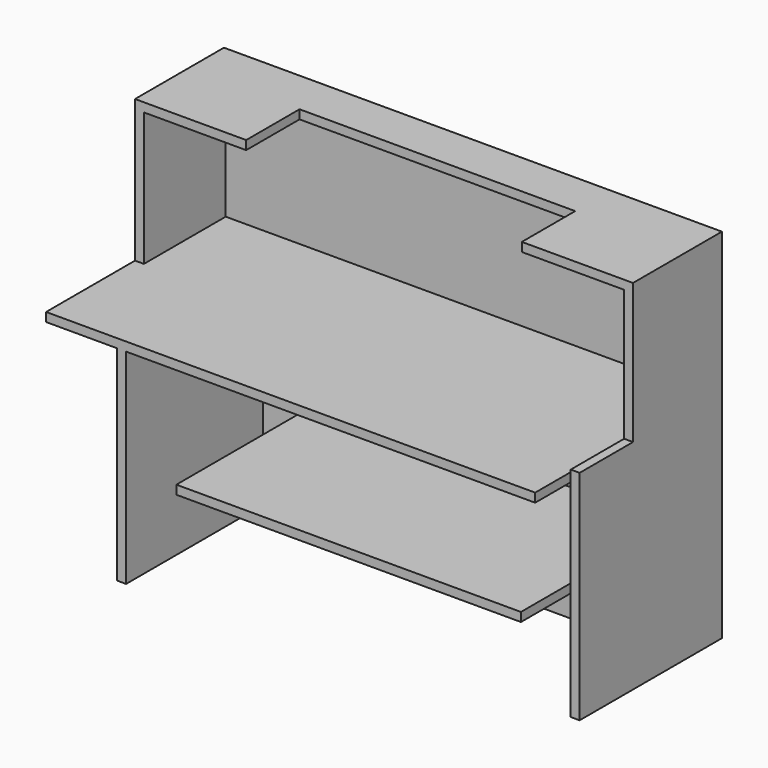
from build123d import *

# Parameters (mm, degrees)
F0_W      = 1100
F0_H      = 500
F1_DEPTH  = 20
F4_DEPTH  = 20
F5_W      = 20
F5_H      = 500
F6_DEPTH  = 460
F9_DEPTH  = 20
F10_W     = 775
F10_H     = 20
F11_DEPTH = 425
F12_W     = 1100
F12_H     = 20
F13_DEPTH = 300
F14_W     = 20
F14_H     = 230
F15_DEPTH = 300
F16_W     = 20
F16_H     = 250
F17_DEPTH = 295
F19_DEPTH = 20
F20_DEPTH = 20


with BuildPart() as f1:
    # F0 (on Top) → F1 (new body)
    with BuildSketch(Plane.XY):
        Rectangle(F0_W, F0_H)
    extrude(amount=F1_DEPTH)

    # F3 (on offset) → F4 (join)
    with BuildSketch(Plane.YZ.offset(550)):
        Polygon((250, -465), (250, 0), (250, 25), (-150, 25), (-150, -465), align=None)
    extrude(amount=F4_DEPTH)

    # F5 (on face) → F6 (join)
    with BuildSketch(Plane.XY):
        with Locations((-380, 0)):
            Rectangle(F5_W, F5_H)
    extrude(amount=-F6_DEPTH)

    # F8 (on offset) → F9 (join)
    with BuildSketch(Plane(origin=(0, 155, 0), x_dir=(-1, 0, 0), z_dir=(0, 1, 0))):
        Polygon((370, 0), (0, 0), (-420, 0), (-420, -460), (370, -460), align=None)
    extrude(amount=-F9_DEPTH)

    # F10 (on face) → F11 (join)
    with BuildSketch(Plane.XZ.offset(-135)):
        with Locations((162.5, -210)):
            Rectangle(F10_W, F10_H)
    extrude(amount=F11_DEPTH)

    # F12 (on face) → F13 (join)
    with BuildSketch(Plane.XY.offset(20)):
        with Locations((0, 240)):
            Rectangle(F12_W, F12_H)
    extrude(amount=F13_DEPTH)

    # F14 (on face) → F15 (join)
    with BuildSketch(Plane.XY.offset(20)):
        with Locations((-540, 115)):
            Rectangle(F14_W, F14_H)
    extrude(amount=F15_DEPTH)

    # F16 (on face) → F17 (join)
    with BuildSketch(Plane.XY.offset(25)):
        with Locations((560, 125)):
            Rectangle(F16_W, F16_H)
    extrude(amount=F17_DEPTH)

    # F18 (on face) → F19 (join)
    with BuildSketch(Plane.XY.offset(320)):
        Polygon((-300, 250), (-550, 250), (-550, 0), (-300, 0), (-300, 150), (320, 150), (320, 0), (570, 0), (570, 250), (320, 250), align=None)
    extrude(amount=F19_DEPTH)

    # F18 (on face) → F20 (join)
    with BuildSketch(Plane.XY.offset(320)):
        Polygon((-300, 250), (-550, 250), (-550, 0), (-300, 0), (-300, 150), (320, 150), (320, 0), (570, 0), (570, 250), (320, 250), align=None)
    extrude(amount=F20_DEPTH)


solid = f1.part
